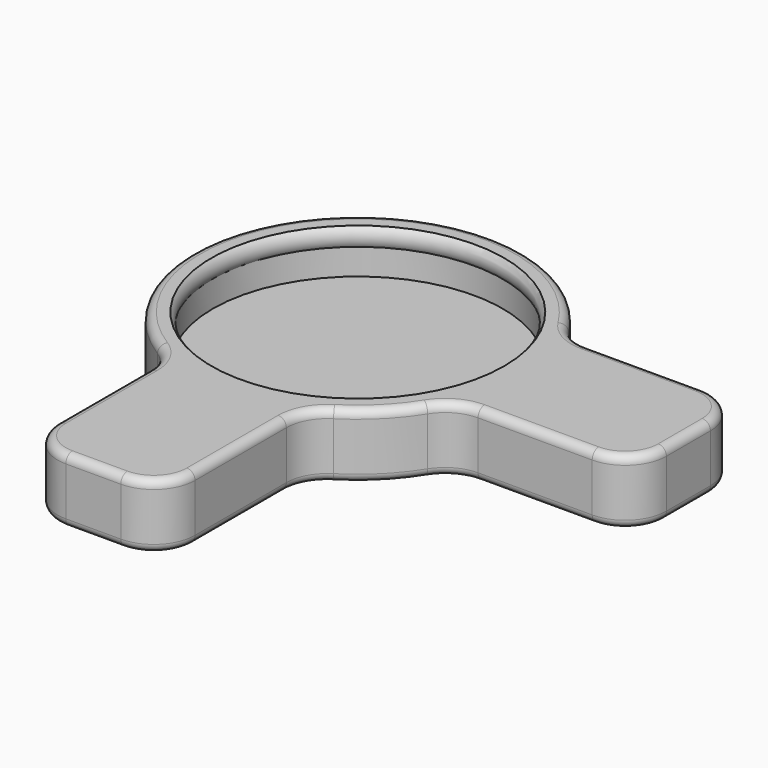
from build123d import *

# Parameters (mm, degrees)
F3_DEPTH = 5.9869614104
F4_R     = 3.81
F5_R     = 0.762


with BuildPart() as f1:
    # F0 (on Front) → F1 (revolve)
    with BuildSketch(Plane.XZ):
        with BuildLine():
            Line((15.3035, 0), (15.3035, 4.1730385896))
            ThreePointArc((15.3035, 4.1730385896), (14.3181376493, 3.8136610654), (13.3985, 4.318))
            Line((13.3985, 4.318), (13.3985, 1.905))
            Line((13.3985, 1.905), (0, 1.905))
            Line((0, 1.905), (0, 0))
            Line((0, 0), (15.3035, 0))
        make_face()
        with BuildLine():
            ThreePointArc((13.3985, 4.318), (14.3181376493, 3.8136610654), (15.3035, 4.1730385896))
            Line((15.3035, 4.1730385896), (15.3035, 5.9869614104))
            Line((15.3035, 5.9869614104), (13.5255, 5.9869614104))
            ThreePointArc((13.5255, 5.9869614104), (13.1481610654, 5.1763623507), (13.3985, 4.318))
        make_face()
    revolve(axis=Axis((0, 0, 4.2298094004), (0, 0, -1)))

    # F2 (on face) → F3 (join, through all)
    with BuildSketch(Plane.XY.offset(5.9869614104)):
        with BuildLine():
            Line((30.5435, -6.35), (30.5435, 6.35))
            Line((30.5435, 6.35), (13.9238863917, 6.35))
            ThreePointArc((13.9238863917, 6.35), (15.3035, 0), (13.9238863917, -6.35))
            Line((13.9238863917, -6.35), (30.5435, -6.35))
        make_face()
        with BuildLine():
            Line((-6.35, -30.5435), (6.35, -30.5435))
            Line((6.35, -30.5435), (6.35, -13.9238863917))
            ThreePointArc((6.35, -13.9238863917), (0, -15.3035), (-6.35, -13.9238863917))
            Line((-6.35, -13.9238863917), (-6.35, -30.5435))
        make_face()
    extrude(amount=-F3_DEPTH)

    # F4
    f4_edges = [f1.edges().sort_by_distance(p)[0] for p in [
        (-6.35, -30.5435, 2.993481),
        (-6.35, -13.923886, 2.993481),
        (6.35, -30.5435, 2.993481),
        (6.35, -13.923886, 2.993481),
        (13.923886, -6.35, 2.993481),
        (30.5435, -6.35, 2.993481),
        (30.5435, 6.35, 2.993481),
        (13.923886, 6.35, 2.993481),
    ]]
    fillet(f4_edges, radius=F4_R)

    # F5
    f5_edges = [f1.edges().sort_by_distance(p)[0] for p in [
        (0, -30.5435, 5.986961),
        (0, -30.5435, 0),
    ]]
    fillet(f5_edges, radius=F5_R)


solid = f1.part
